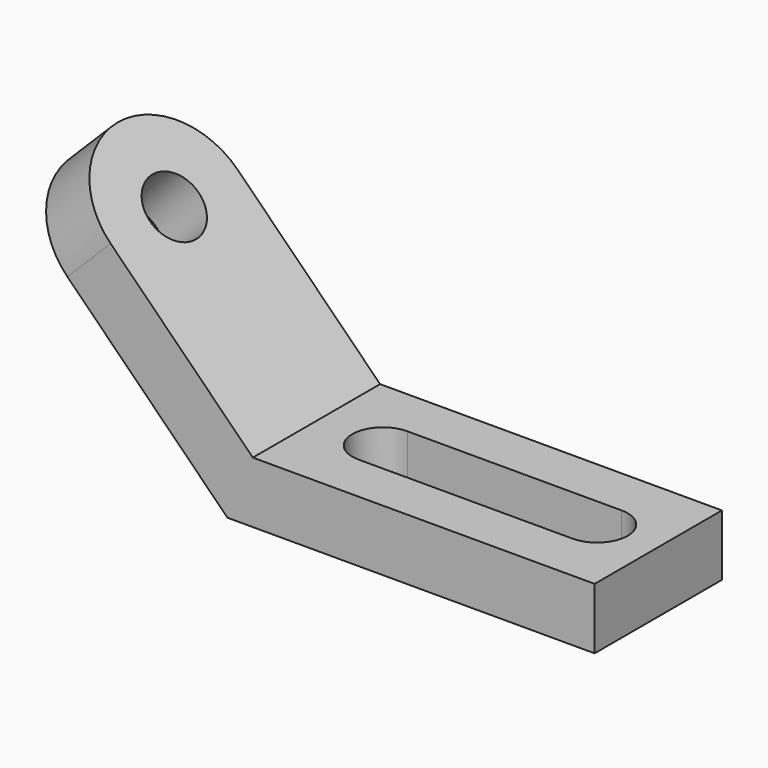
from build123d import *

# Parameters (mm, degrees)
F1_DEPTH = 26
F3_DEPTH = 20
F4_R     = 10
F5_DEPTH = 20


with BuildPart() as f1:
    # F0 (on Front) → F1 (new body, symmetric)
    with BuildSketch(Plane.XZ):
        Polygon((8.2842712475, 20), (0, 0), (120, 0), (120, 20), align=None)
        Polygon((-70.7106781187, 70.7106781187), (0, 0), (8.2842712475, 20), (-56.5685424949, 84.8528137424), align=None)
    extrude(amount=F1_DEPTH, both=True)

    # F2 (on face) → F3 (cut, through all)
    with BuildSketch(Plane.XY.offset(20)):
        with BuildLine():
            ThreePointArc((100, -10), (110, 0), (100, 10))
            Line((100, 10), (30, 10))
            ThreePointArc((30, 10), (20, 0), (30, -10))
            Line((30, -10), (100, -10))
        make_face()
    extrude(amount=-F3_DEPTH, mode=Mode.SUBTRACT)

    # F4 (on face) → F5 (cut, through all)
    with BuildSketch(Plane(origin=(14.1421356237, 0, 14.1421356237), x_dir=(0.7071067812, 0, -0.7071067812), z_dir=(0.7071067812, 0, 0.7071067812))):
        with Locations((-74, 0)):
            Circle(F4_R)
        with BuildLine():
            ThreePointArc((-100, -7.05e-08), (-92.3847763358, 18.3847762859), (-74, 26))
            Line((-74, 26), (-100, 26))
            Line((-100, 26), (-100, -7.05e-08))
        make_face()
        with BuildLine():
            ThreePointArc((-74, -26), (-92.3847762859, -18.3847763358), (-100, -7.05e-08))
            Line((-100, -7.05e-08), (-100, -26))
            Line((-100, -26), (-74, -26))
        make_face()
    extrude(amount=-F5_DEPTH, mode=Mode.SUBTRACT)


solid = f1.part
